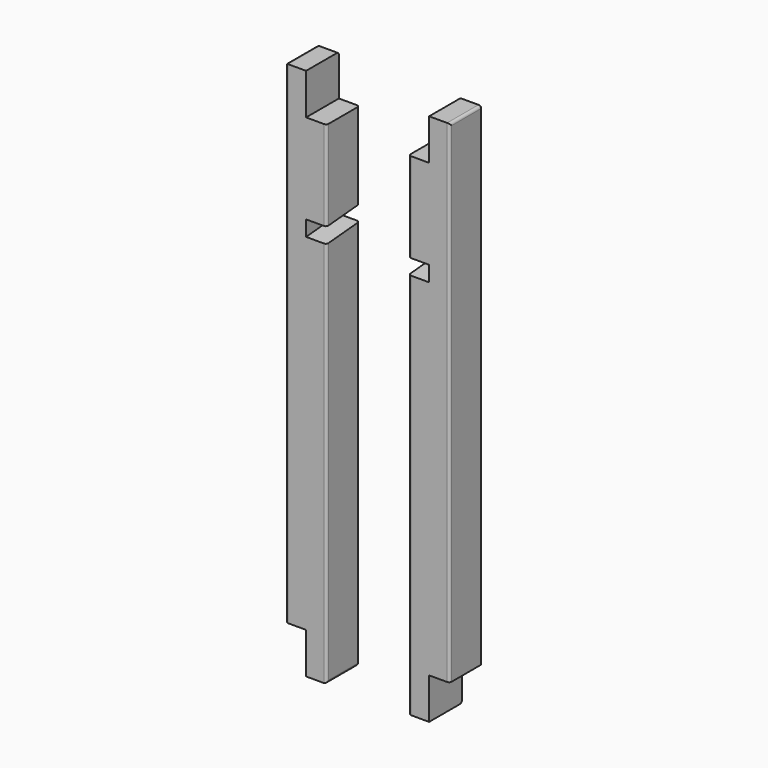
from build123d import *

# Parameters (mm, degrees)
F0_W          = 25.4
F0_H          = 50.8
F1_DEPTH      = 609.6
F2_DEPTH      = 50.8
F2_DEPTH_BACK = 558.8
F4_DEPTH      = 25.4
F5_R          = 3.175


with BuildPart() as f1:
    # F0 (on Top) → F1 (new body)
    with BuildSketch(Plane.XY):
        with Locations((12.7, 25.4)):
            Rectangle(F0_W, F0_H)
    extrude(amount=F1_DEPTH)

    # F0 (on Top) → F2 (join, two sides)
    with BuildSketch(Plane.XY) as f2_sk:
        with Locations((-12.7, 25.4)):
            Rectangle(F0_W, F0_H)
    extrude(amount=-F2_DEPTH)
    extrude(f2_sk.sketch, amount=F2_DEPTH_BACK)

    # F3 (on Right) → F4 (cut)
    with BuildSketch(Plane.YZ):
        Polygon((0, 428.5234), (50.8, 432.9678241071), (50.8, 452.0905920123), (0, 447.6461679052), align=None)
    extrude(amount=-F4_DEPTH, mode=Mode.SUBTRACT)

    # F5
    f5_edges = [f1.edges().sort_by_distance(p)[0] for p in [
        (-25.4, 50.8, 505.445296),
        (-25.4, 0, 503.223084),
        (-25.4, 50.8, 191.083912),
        (-25.4, 0, 188.8617),
        (12.7, 50.8, 609.6),
        (25.4, 25.4, 609.6),
        (25.4, 50.8, 304.8),
        (25.4, 0, 304.8),
        (-25.4, 25.4, -50.8),
        (-12.7, 50.8, -50.8),
    ]]
    fillet(f5_edges, radius=F5_R)


with BuildPart() as f7_1:
    # F7: instance of F1
    add(f1.part.mirror(Plane.YZ.offset(-76.2)))


solid = Compound([f1.part, f7_1.part])
